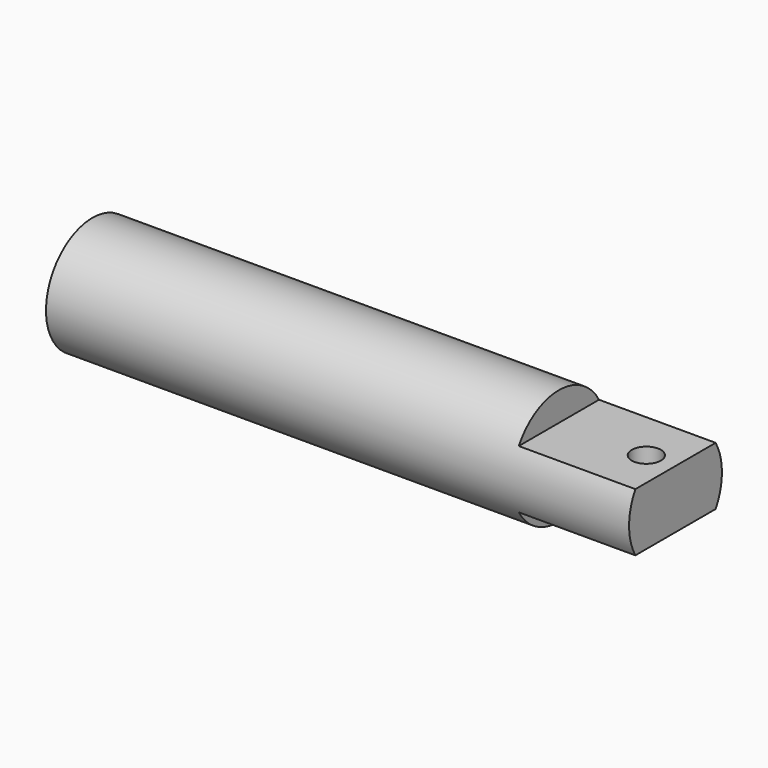
from build123d import *

# Parameters (mm, degrees)
F0_W     = 127
F0_H     = 12.6365
F3_DEPTH = 254
F6_R     = 3.175
F7_DEPTH = 18.9875


with BuildPart() as f1:
    # F0 (on Top) → F1 (revolve)
    with BuildSketch(Plane.XY):
        with Locations((0, 6.31825)):
            Rectangle(F0_W, F0_H)
    revolve(axis=Axis((76.779476, 0, 0), (1, 0, 0)))

    # F2 (on Front) → F3 (cut, symmetric)
    with BuildSketch(Plane.XZ):
        Polygon((78.026347, 6.35), (78.026347, 30.263957), (38.1, 30.263957), (38.1, 12.6365), (38.1, 6.35), align=None)
        Polygon((98.902516, -6.35), (38.1, -6.35), (38.1, -12.6365), (38.1, -34.843228), (98.902516, -34.843228), align=None)
    extrude(amount=F3_DEPTH, both=True, mode=Mode.SUBTRACT)

    # F4 (on Front) → F5 (revolve, cut)
    with BuildSketch(Plane.XZ):
        with BuildLine():
            ThreePointArc((-57.15, 0), (-60.869744, 8.980256), (-69.85, 12.7))
            Line((-69.85, 12.7), (-69.85, 0))
            Line((-69.85, 0), (-57.15, 0))
        make_face()
    revolve(axis=Axis((-63.5, 0, 0), (1, 0, 0)), mode=Mode.SUBTRACT)

    # F6 (on face) → F7 (cut, through all)
    with BuildSketch(Plane.XY.offset(6.35)):
        with Locations((57.15, 0)):
            Circle(F6_R)
    extrude(amount=-F7_DEPTH, mode=Mode.SUBTRACT)


solid = f1.part
